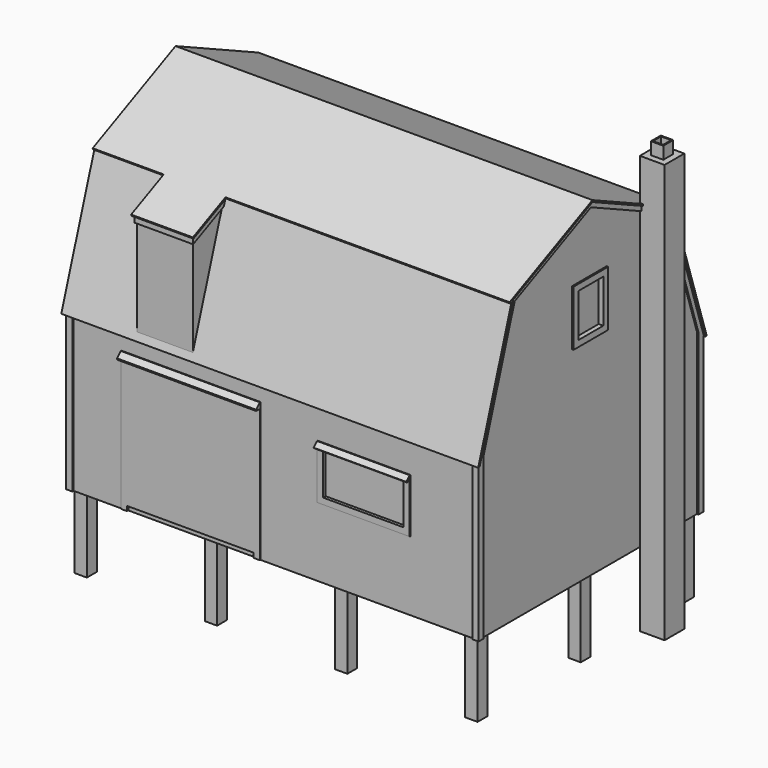
from build123d import *

# Parameters (mm, degrees)
F1_DEPTH       = 6781.8
F2_W           = 38.1
F2_H           = 2540
F3_DEPTH       = 6781.801
F5_DEPTH       = 25.4
F7_DEPTH       = 25.4
F9_DEPTH       = 25.4
F9_DEPTH_BACK  = 6832.6
F10_W          = 406.4
F10_H          = 6883.4
F11_DEPTH      = 406.4
F12_W          = 203.2
F12_H          = 203.2
F13_DEPTH      = 203.2
F14_W          = 165.1
F14_H          = 165.1
F15_DEPTH      = 609.6
F18_DEPTH      = 914.4
F20_DEPTH      = 25.4
F20_DEPTH_BACK = 939.8
F22_DEPTH      = 25.4
F22_DEPTH_BACK = 990.6
F23_W          = 6578.6
F23_H          = 2540
F24_DEPTH      = 25.4
F25_W          = 6578.6
F25_H          = 2540
F26_DEPTH      = 25.4
F27_W          = 2286
F27_H          = 2286
F27_W_2        = 1524
F27_H_2        = 889
F28_DEPTH      = 12.7
F29_W          = 1320.8
F29_H          = 685.8
F30_DEPTH      = 50.8
F32_DEPTH      = 1524
F34_DEPTH      = 2286
F35_W          = 711.2
F35_H          = 914.4
F36_DEPTH      = 25.4
F37_W          = 508
F37_H          = 711.2
F38_DEPTH      = 76.2
F39_W          = 711.2
F39_H          = 1016
F40_DEPTH      = 25.4
F41_W          = 508
F41_H          = 812.8
F42_DEPTH      = 76.2
F43_W          = 508
F43_H          = 711.2
F44_DEPTH      = 50.8
F43_W_2        = 711.2
F43_H_2        = 914.4
F45_DEPTH      = 25.4
F46_W          = 711.2
F46_H          = 1016
F47_DEPTH      = 25.4
F48_W          = 508
F48_H          = 812.8
F49_DEPTH      = 76.2
F50_W          = 203.2
F50_H          = 203.2
F51_DEPTH      = 1219.2
F52_W          = 2082.8
F52_H          = 76.2
F53_DEPTH      = 25.4


with BuildPart() as f1:
    # F0 (on Right) → F1 (new body)
    with BuildSketch(Plane.YZ):
        Polygon((0, 2540), (0, 0), (4699, 0), (4699, 2540), (4000.5, 4699), (2349.5, 5461), (698.5, 4699), align=None)
    extrude(amount=F1_DEPTH)

    # F2 (on face) → F3 (cut, through all)
    with BuildSketch(Plane.YZ.offset(6781.8)):
        with Locations((19.05, 1270)):
            Rectangle(F2_W, F2_H)
        with Locations((4679.95, 1270)):
            Rectangle(F2_W, F2_H)
    extrude(amount=-F3_DEPTH, mode=Mode.SUBTRACT)

    # F4 (on face) → F5 (cut)
    with BuildSketch(Plane.YZ.offset(6781.8)):
        Polygon((139.7, 2641.7372821933), (139.7, 0), (4559.3, 0), (4559.3, 2641.7372821933), (3917.5282664201, 4625.3953678039), (2349.5, 5349.1007215362), (781.4717335799, 4625.3953678039), align=None)
    extrude(amount=-F5_DEPTH, mode=Mode.SUBTRACT)

    # F6 (on face) → F7 (cut)
    with BuildSketch(Plane(origin=(0, 0, 0), x_dir=(0, -1, 0), z_dir=(-1, 0, 0))):
        Polygon((-139.7, 0), (-139.7, 2641.7372821933), (-781.4717335799, 4625.3953678039), (-2349.5, 5349.1007215362), (-3917.5282664201, 4625.3953678039), (-4559.3, 2641.7372821933), (-4559.3, 0), align=None)
    extrude(amount=-F7_DEPTH, mode=Mode.SUBTRACT)

    # F8 (on face) → F9 (join, two sides)
    with BuildSketch(Plane.YZ.offset(6781.8)) as f9_sk:
        Polygon((0, 2540), (26.6962492344, 2540), (719.242933395, 4680.598841951), (2349.5, 5433.0251803841), (3979.757066605, 4680.598841951), (4672.3037507656, 2540), (4699, 2540), (4011.139359588, 4666.1147067281), (4000.5, 4699), (2349.5, 5461), (698.5, 4699), (687.860640412, 4666.1147067281), align=None)
        Polygon((656.4783474291, 4651.6305715052), (687.860640412, 4666.1147067281), (698.5, 4699), (645.8342697215, 4674.6927398715), align=None)
        Polygon((4053.1657302785, 4674.6927398715), (4000.5, 4699), (4011.139359588, 4666.1147067281), (4042.5216525709, 4651.6305715052), align=None)
    extrude(amount=F9_DEPTH)
    extrude(f9_sk.sketch, amount=-F9_DEPTH_BACK)

    # F10 (on face) → F11 (join)
    with BuildSketch(Plane.YZ.offset(6756.4)):
        with Locations((3590.119940567, 2222.5)):
            Rectangle(F10_W, F10_H)
    extrude(amount=F11_DEPTH)

    # F12 (on face) → F13 (join)
    with BuildSketch(Plane.XY.offset(5664.2)):
        with Locations((6959.6, 3590.119940567)):
            Rectangle(F12_W, F12_H)
    extrude(amount=F13_DEPTH)

    # F14 (on face) → F15 (cut)
    with BuildSketch(Plane.XY.offset(5867.4)):
        with Locations((6959.6, 3590.119940567)):
            Rectangle(F14_W, F14_H)
    extrude(amount=-F15_DEPTH, mode=Mode.SUBTRACT)

    # F17 (on offset) → F18 (join)
    with BuildSketch(Plane(origin=(1168.4, 0, 0), x_dir=(0, -1, 0), z_dir=(-1, 0, 0))):
        Polygon((-38.1, 4394.2), (-698.5, 4699), (-38.1, 2657.7636363636), align=None)
    extrude(amount=-F18_DEPTH)

    # F19 (on face) → F20 (join, two sides)
    with BuildSketch(Plane(origin=(1168.4, 0, 0), x_dir=(0, -1, 0), z_dir=(-1, 0, 0))) as f20_sk:
        Polygon((-12.7, 4382.4769230769), (-825.0622268815, 4757.4133354838), (-874.8007359905, 4640.4954723774), (-12.7, 4242.6028249972), align=None)
    extrude(amount=F20_DEPTH)
    extrude(f20_sk.sketch, amount=-F20_DEPTH_BACK)

    # F21 (on face) → F22 (join, two sides)
    with BuildSketch(Plane(origin=(1143, 0, 0), x_dir=(0, -1, 0), z_dir=(-1, 0, 0))) as f22_sk:
        Polygon((-12.7, 4382.4769230769), (-645.8342697215, 4674.6927398715), (-656.4783474291, 4651.6305715052), (-12.7, 4354.502103461), align=None)
        Polygon((23.3440777075, 4365.8411949042), (-12.7, 4382.4769230769), (-12.7, 4354.502103461), (12.7, 4342.7790265379), align=None)
    extrude(amount=F22_DEPTH)
    extrude(f22_sk.sketch, amount=-F22_DEPTH_BACK)

    # F23 (on face) → F24 (cut)
    with BuildSketch(Plane.XZ.offset(-38.1)):
        with Locations((3390.9, 1270)):
            Rectangle(F23_W, F23_H)
    extrude(amount=-F24_DEPTH, mode=Mode.SUBTRACT)

    # F25 (on face) → F26 (cut)
    with BuildSketch(Plane(origin=(0, 4660.9, 0), x_dir=(-1, 0, 0), z_dir=(0, 1, 0))):
        with Locations((-3390.9, 1270)):
            Rectangle(F25_W, F25_H)
    extrude(amount=-F26_DEPTH, mode=Mode.SUBTRACT)

    # F27 (on face) → F28 (join)
    with BuildSketch(Plane.XZ.offset(-63.5)):
        with Locations((2032, 1143)):
            Rectangle(F27_W, F27_H)
        with Locations((4876.8, 1587.5)):
            Rectangle(F27_W_2, F27_H_2)
    extrude(amount=F28_DEPTH)

    # F29 (on face) → F30 (cut)
    with BuildSketch(Plane.XZ.offset(-50.8)):
        with Locations((4876.8, 1587.5)):
            Rectangle(F29_W, F29_H)
    extrude(amount=-F30_DEPTH, mode=Mode.SUBTRACT)

    # F31 (on face) → F32 (join, through all)
    with BuildSketch(Plane.YZ.offset(5638.8)):
        Polygon((50.8, 1996.0789755157), (50.8, 2032), (-17.9605122421, 1963.2394877579), (0, 1945.2789755157), align=None)
    extrude(amount=-F32_DEPTH)

    # F33 (on face) → F34 (join, through all)
    with BuildSketch(Plane(origin=(889, 0, 0), x_dir=(0, -1, 0), z_dir=(-1, 0, 0))):
        Polygon((25.4, 2209.8), (-50.8, 2286), (-50.8, 2190.75), (25.4, 2190.75), align=None)
    extrude(amount=-F34_DEPTH)

    # F35 (on face) → F36 (join)
    with BuildSketch(Plane.YZ.offset(6756.4)):
        with Locations((2349.5, 3886.2)):
            Rectangle(F35_W, F35_H)
    extrude(amount=F36_DEPTH)

    # F37 (on face) → F38 (cut)
    with BuildSketch(Plane.YZ.offset(6781.8)):
        with Locations((2349.5, 3886.2)):
            Rectangle(F37_W, F37_H)
    extrude(amount=-F38_DEPTH, mode=Mode.SUBTRACT)

    # F39 (on face) → F40 (join)
    with BuildSketch(Plane(origin=(0, 4635.5, 0), x_dir=(-1, 0, 0), z_dir=(0, 1, 0))):
        with Locations((-5246.9144861388, 1651)):
            Rectangle(F39_W, F39_H)
        with Locations((-3006.2954568816, 1651)):
            Rectangle(F39_W, F39_H)
        with Locations((-2091.8954568816, 1651)):
            Rectangle(F39_W, F39_H)
    extrude(amount=F40_DEPTH)

    # F41 (on face) → F42 (cut)
    with BuildSketch(Plane(origin=(0, 4660.9, 0), x_dir=(-1, 0, 0), z_dir=(0, 1, 0))):
        with Locations((-5246.9144861388, 1651)):
            Rectangle(F41_W, F41_H)
        with Locations((-3006.2954568816, 1651)):
            Rectangle(F41_W, F41_H)
        with Locations((-2091.8954568816, 1651)):
            Rectangle(F41_W, F41_H)
    extrude(amount=-F42_DEPTH, mode=Mode.SUBTRACT)

    # F43 (on face) → F44 (cut)
    with BuildSketch(Plane(origin=(25.4, 0, 0), x_dir=(0, -1, 0), z_dir=(-1, 0, 0))):
        with Locations((-2349.5, 3886.2)):
            Rectangle(F43_W, F43_H)
    extrude(amount=-F44_DEPTH, mode=Mode.SUBTRACT)

    # F43 (on face) → F45 (join)
    with BuildSketch(Plane(origin=(25.4, 0, 0), x_dir=(0, -1, 0), z_dir=(-1, 0, 0))):
        with Locations((-2349.5, 3886.2)):
            Rectangle(F43_W_2, F43_H_2)
        with Locations((-2349.5, 3886.2)):
            Rectangle(F43_W, F43_H, mode=Mode.SUBTRACT)
    extrude(amount=F45_DEPTH)

    # F46 (on face) → F47 (join)
    with BuildSketch(Plane(origin=(25.4, 0, 0), x_dir=(0, -1, 0), z_dir=(-1, 0, 0))):
        with Locations((-3213.1, 1651)):
            Rectangle(F46_W, F46_H)
        with Locations((-1485.9, 1651)):
            Rectangle(F46_W, F46_H)
    extrude(amount=F47_DEPTH)

    # F48 (on face) → F49 (cut)
    with BuildSketch(Plane(origin=(0, 0, 0), x_dir=(0, -1, 0), z_dir=(-1, 0, 0))):
        with Locations((-3213.1, 1651)):
            Rectangle(F48_W, F48_H)
        with Locations((-1485.9, 1651)):
            Rectangle(F48_W, F48_H)
    extrude(amount=-F49_DEPTH, mode=Mode.SUBTRACT)

    # F50 (on face) → F51 (join)
    with BuildSketch(Plane(origin=(0, 0, 0), x_dir=(1, 0, 0), z_dir=(0, 0, -1))):
        with Locations((177.8, -215.9)):
            Rectangle(F50_W, F50_H)
        with Locations((2319.8666666667, -215.9)):
            Rectangle(F50_W, F50_H)
        with Locations((4461.9333333333, -215.9)):
            Rectangle(F50_W, F50_H)
        with Locations((6604, -215.9)):
            Rectangle(F50_W, F50_H)
        with Locations((6604, -2336.8)):
            Rectangle(F50_W, F50_H)
        with Locations((177.8, -2336.8)):
            Rectangle(F50_W, F50_H)
        with Locations((177.8, -4457.7)):
            Rectangle(F50_W, F50_H)
        with Locations((2319.8666666667, -4457.7)):
            Rectangle(F50_W, F50_H)
        with Locations((4461.9333333333, -4457.7)):
            Rectangle(F50_W, F50_H)
        with Locations((6604, -4457.7)):
            Rectangle(F50_W, F50_H)
    extrude(amount=F51_DEPTH)

    # F52 (on face) → F53 (cut)
    with BuildSketch(Plane.XZ.offset(-50.8)):
        with Locations((2032, 38.1)):
            Rectangle(F52_W, F52_H)
    extrude(amount=-F53_DEPTH, mode=Mode.SUBTRACT)


solid = f1.part
